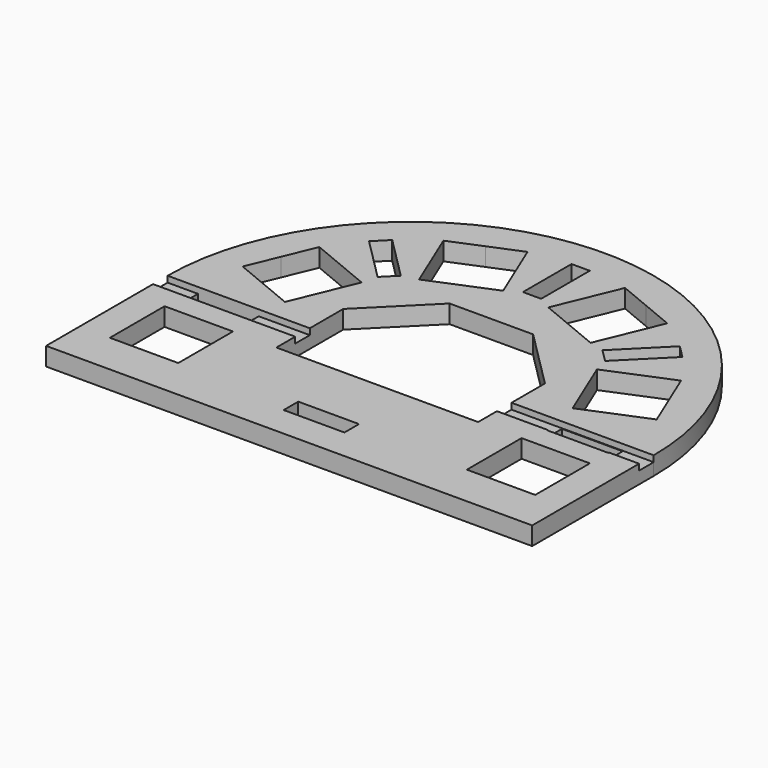
from build123d import *

# Parameters (mm, degrees)
SKETCH012_W      = 320
SKETCH012_H      = 12
EXTRUDE001_DEPTH = 4
SKETCH007_W      = 12
SKETCH007_H      = 40
SKETCH007_W_2    = 40
SKETCH007_H_2    = 12
EXTRUDE_DEPTH    = 12


with BuildPart() as innertemplatealignmentslot:
    # Sketch012 → Extrude001 (new body)
    with BuildSketch(Plane.XY):
        with Locations((0, -6)):
            Rectangle(SKETCH012_W, SKETCH012_H)
    extrude(amount=EXTRUDE001_DEPTH)


with BuildPart() as innertemplatealignmentslot_1:
    # Extrude001 placement: moved
    add(innertemplatealignmentslot.part.moved(Location((0, 0, 8))))


with BuildPart() as innertemplate:
    # Sketch007 → Extrude (new body)
    with BuildSketch(Plane.XY):
        with BuildLine():
            ThreePointArc((160, 0), (0, 160), (-160, 0))
            Line((-160, 0), (-160, -100))
            Line((-160, -100), (160, -100))
            Line((160, -100), (160, 0))
        make_face()
        Polygon((-140, -72.5), (-95, -72.5), (-95, -27.5), (-140, -27.5), (-140, -50), align=None, mode=Mode.SUBTRACT)
        Polygon((-136.272177, 32.091959), (-94.697598, 14.871205), (-77.476843, 56.445784), (-119.051422, 73.666538), (-127.6618, 52.879249), align=None, mode=Mode.SUBTRACT)
        Polygon((-32.091959, 136.272177), (-14.871205, 94.697598), (-56.445784, 77.476843), (-73.666538, 119.051422), (-52.879249, 127.6618), align=None, mode=Mode.SUBTRACT)
        Polygon((73.666538, 119.051422), (56.445784, 77.476843), (14.871205, 94.697598), (32.091959, 136.272177), (52.879249, 127.6618), align=None, mode=Mode.SUBTRACT)
        Polygon((136.272177, 32.091959), (94.697598, 14.871205), (77.476843, 56.445784), (119.051422, 73.666538), (127.6618, 52.879249), align=None, mode=Mode.SUBTRACT)
        Polygon((94.999107, -27.5), (139.999107, -27.5), (139.999107, -50), (139.999107, -72.5), (94.999107, -72.5), align=None, mode=Mode.SUBTRACT)
        Polygon((66.390873, -27.5), (66.390873, 27.5), (27.5, 66.390873), (-27.5, 66.390873), (-66.390873, 27.5), (-66.390873, -27.5), align=None, mode=Mode.SUBTRACT)
        Polygon((-94.661353, 103.146635), (-66.377082, 74.862363), (-74.862363, 66.377082), (-103.146635, 94.661353), (-98.903994, 98.903994), align=None, mode=Mode.SUBTRACT)
        with Locations((0, 119.871369)):
            Rectangle(SKETCH007_W, SKETCH007_H, mode=Mode.SUBTRACT)
        Polygon((103.146635, 94.661353), (74.862363, 66.377082), (66.377082, 74.862363), (94.661353, 103.146635), (98.903994, 98.903994), align=None, mode=Mode.SUBTRACT)
        with Locations((-120, -6)):
            Rectangle(SKETCH007_W_2, SKETCH007_H_2, mode=Mode.SUBTRACT)
        with Locations((119.999107, -6.5)):
            Rectangle(SKETCH007_W_2, SKETCH007_H_2, mode=Mode.SUBTRACT)
        with Locations((0, -73.5)):
            Rectangle(SKETCH007_W_2, SKETCH007_H_2, mode=Mode.SUBTRACT)
    extrude(amount=EXTRUDE_DEPTH)

    # Cut: cut InnerTemplateAlignmentSlot
    add(innertemplatealignmentslot_1.part, mode=Mode.SUBTRACT)


with BuildPart() as innertemplate_1:
    # Cut placement: moved
    add(innertemplate.part.moved(Location((0, 0, 6))))


solid = innertemplate_1.part
